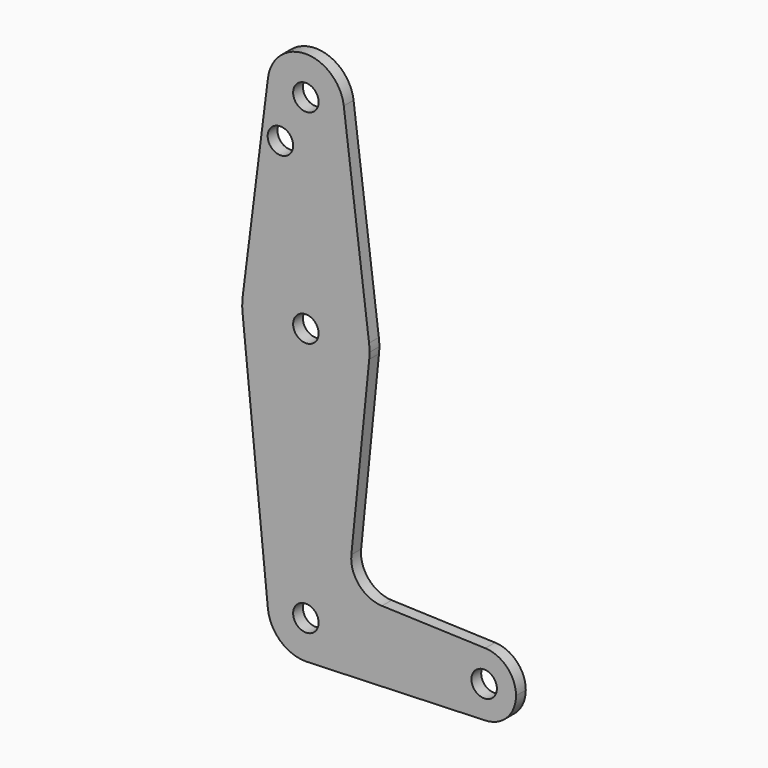
from build123d import *

# Parameters (mm, degrees)
F0_R     = 3.175
F1_DEPTH = 3.048


with BuildPart() as f1:
    # F0 (on Front) → F1 (new body)
    with BuildSketch(Plane.XZ):
        with BuildLine():
            Line((-9.450293, 115.490625), (-15.750488, 65.484375))
            ThreePointArc((-15.750488, 65.484375), (0, 79.375), (15.750488, 65.484375))
            Line((15.750488, 65.484375), (9.450293, 115.490625))
            ThreePointArc((9.450293, 115.490625), (9.506305, 114.896483), (9.525, 114.3))
            ThreePointArc((9.525, 114.3), (-0.596483, 104.793695), (-9.450293, 115.490625))
        make_face()
        with Locations((-6.35, 102.689072)):
            Circle(F0_R, mode=Mode.SUBTRACT)
        with BuildLine():
            ThreePointArc((9.450293, 115.490625), (0, 123.825), (-9.450293, 115.490625))
            ThreePointArc((-9.450293, 115.490625), (-0.596483, 104.793695), (9.525, 114.3))
            ThreePointArc((9.525, 114.3), (9.506305, 114.896483), (9.450293, 115.490625))
        make_face()
        with Locations((0, 114.3)):
            Circle(F0_R, mode=Mode.SUBTRACT)
        with BuildLine():
            ThreePointArc((-15.750488, 65.484375), (-15.873744, 63.699705), (-15.795426, 61.9125))
            ThreePointArc((-15.795426, 61.9125), (0, 47.625), (15.795426, 61.9125))
            ThreePointArc((15.795426, 61.9125), (15.855094, 62.705253), (15.875, 63.5))
            ThreePointArc((15.875, 63.5), (15.843841, 64.494139), (15.750488, 65.484375))
            ThreePointArc((15.750488, 65.484375), (0, 79.375), (-15.750488, 65.484375))
        make_face()
        with Locations((0, 63.5)):
            Circle(F0_R, mode=Mode.SUBTRACT)
        with BuildLine():
            ThreePointArc((-9.477255, -0.9525), (-0.476848, 9.513056), (9.525, 0))
            ThreePointArc((9.525, 0), (6.970557, -6.491299), (0.677344, -9.500886))
            Line((0.677344, -9.500886), (44.732405, -7.932475))
            ThreePointArc((44.732405, -7.932475), (36.5125, 0), (44.732405, 7.932475))
            Line((44.732405, 7.932475), (18.968328, 8.849706))
            ThreePointArc((18.968328, 8.849706), (13.261204, 11.567463), (11.340836, 17.589892))
            Line((11.340836, 17.589892), (15.795426, 61.9125))
            ThreePointArc((15.795426, 61.9125), (0, 47.625), (-15.795426, 61.9125))
            Line((-15.795426, 61.9125), (-9.477255, -0.9525))
        make_face()
        with BuildLine():
            ThreePointArc((0.677344, -9.500886), (6.970557, -6.491299), (9.525, 0))
            ThreePointArc((9.525, 0), (-0.476848, 9.513056), (-9.477255, -0.9525))
            ThreePointArc((-9.477255, -0.9525), (-6.389564, -7.063929), (0, -9.525))
            Line((0, -9.525), (0.677344, -9.500886))
        make_face()
        Circle(F0_R, mode=Mode.SUBTRACT)
        with BuildLine():
            ThreePointArc((44.732405, 7.932475), (36.5125, 0), (44.732405, -7.932475))
            ThreePointArc((44.732405, -7.932475), (50.161633, -5.51191), (52.3875, 0))
            ThreePointArc((52.3875, 0), (50.161633, 5.51191), (44.732405, 7.932475))
        make_face()
        with Locations((44.45, 0)):
            Circle(F0_R, mode=Mode.SUBTRACT)
    extrude(amount=F1_DEPTH)


solid = f1.part
